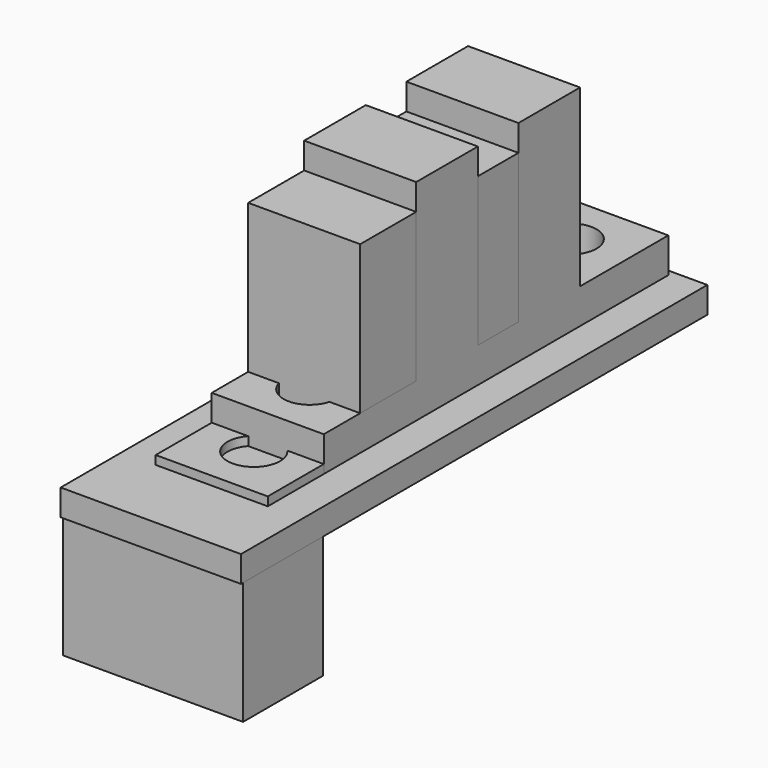
from build123d import *

# Parameters (mm, degrees)
SKETCH_W     = 10.3
SKETCH_H     = 33.3
SKETCH_R     = 1.5
PAD_DEPTH    = 1.5
SKETCH001_W  = 6.4
SKETCH001_H  = 24.6
SKETCH001_R  = 1.5
PAD001_DEPTH = 2
SKETCH002_W  = 6.4
SKETCH002_H  = 4.4
PAD002_DEPTH = 10
BOX_W        = 10.3
BOX_H        = 5.7
BOX_DEPTH    = 7


with BuildPart() as pcb:
    # Sketch → Pad (new body)
    with BuildSketch(Plane.XY):
        Rectangle(SKETCH_W, SKETCH_H)
        with Locations((0, 13.3)):
            Circle(SKETCH_R, mode=Mode.SUBTRACT)
        with Locations((0, -5.3)):
            Circle(SKETCH_R, mode=Mode.SUBTRACT)
    extrude(amount=PAD_DEPTH)


with BuildPart() as sensor:
    # Sketch001 → Pad001 (new body)
    with BuildSketch(Plane.XY):
        Rectangle(SKETCH001_W, SKETCH001_H)
        with Locations((0, 9.3)):
            Circle(SKETCH001_R, mode=Mode.SUBTRACT)
        with Locations((0, -9.3)):
            Circle(SKETCH001_R, mode=Mode.SUBTRACT)
    extrude(amount=PAD001_DEPTH)

    # Sketch002 → Pad002 (new body)
    with BuildSketch(Plane.XY.offset(2)):
        with Locations((0, 3.8)):
            Rectangle(SKETCH002_W, SKETCH002_H)
        with Locations((0, -3.5)):
            Rectangle(SKETCH002_W, SKETCH002_H)
    extrude(amount=PAD002_DEPTH)


with BuildPart() as conector:
    # Box → Box (new body)
    with BuildSketch(Plane(origin=(-5.15, -16.5, -7), x_dir=(1, 0, 0), z_dir=(0, 0, 1))):
        with Locations((5.15, 2.85)):
            Rectangle(BOX_W, BOX_H)
    extrude(amount=BOX_DEPTH)


with BuildPart() as clone_of_sensor:
    # Clone base: copy of sensor
    add(sensor.part)


with BuildPart() as clone_of_sensor_1:
    # Clone placement: moved
    add(clone_of_sensor.part.moved(Location((0, 4, 1.5))))


solid = Compound([pcb.part, sensor.part, conector.part, clone_of_sensor_1.part])
